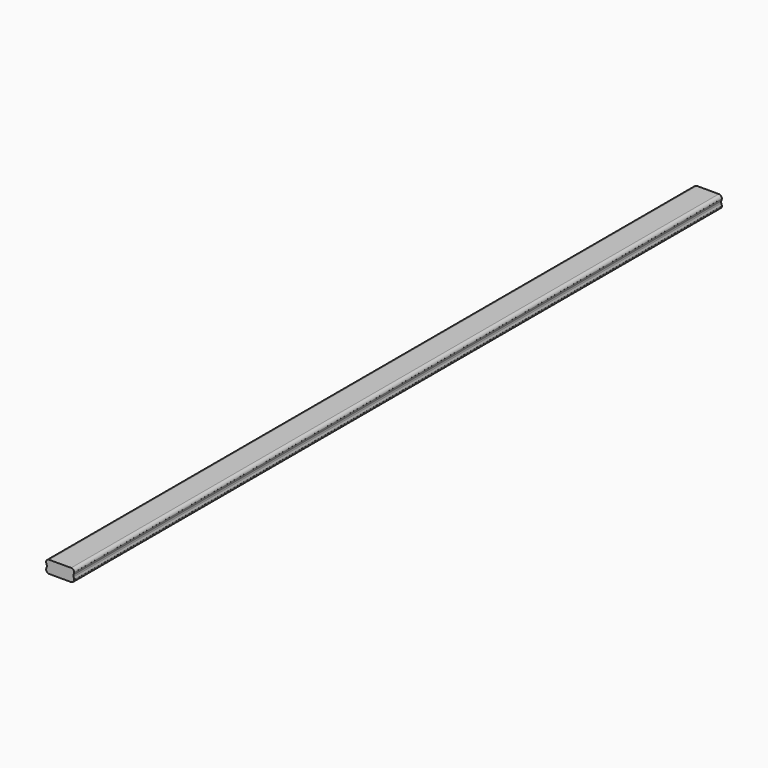
from build123d import *

# Parameters (mm, degrees)
F1_DEPTH = 2590
F2_R     = 8
F3_DEPTH = 25


with BuildPart() as f1:
    # F0 (on Front) → F1 (new body)
    with BuildSketch(Plane.XZ):
        with BuildLine():
            Line((-35, -20), (35, -20))
            ThreePointArc((35, -20), (42.071068, -17.071068), (45, -10))
            Line((45, -10), (42.904106, -2.792146))
            ThreePointArc((42.904106, -2.792146), (42.506393, 0), (42.904106, 2.792146))
            Line((42.904106, 2.792146), (45, 10))
            ThreePointArc((45, 10), (42.071068, 17.071068), (35, 20))
            Line((35, 20), (-35, 20))
            ThreePointArc((-35, 20), (-42.071068, 17.071068), (-45, 10))
            Line((-45, 10), (-42.904106, 2.792146))
            ThreePointArc((-42.904106, 2.792146), (-42.506393, 0), (-42.904106, -2.792146))
            Line((-42.904106, -2.792146), (-45, -10))
            ThreePointArc((-45, -10), (-42.071068, -17.071068), (-35, -20))
        make_face()
    extrude(amount=F1_DEPTH)

    # F2 (on face) → F3 (cut)
    with BuildSketch(Plane(origin=(0, 0, -20), x_dir=(1, 0, 0), z_dir=(0, 0, -1))):
        with Locations((0, 2552.515268)):
            Circle(F2_R)
    extrude(amount=-F3_DEPTH, mode=Mode.SUBTRACT)


solid = f1.part
